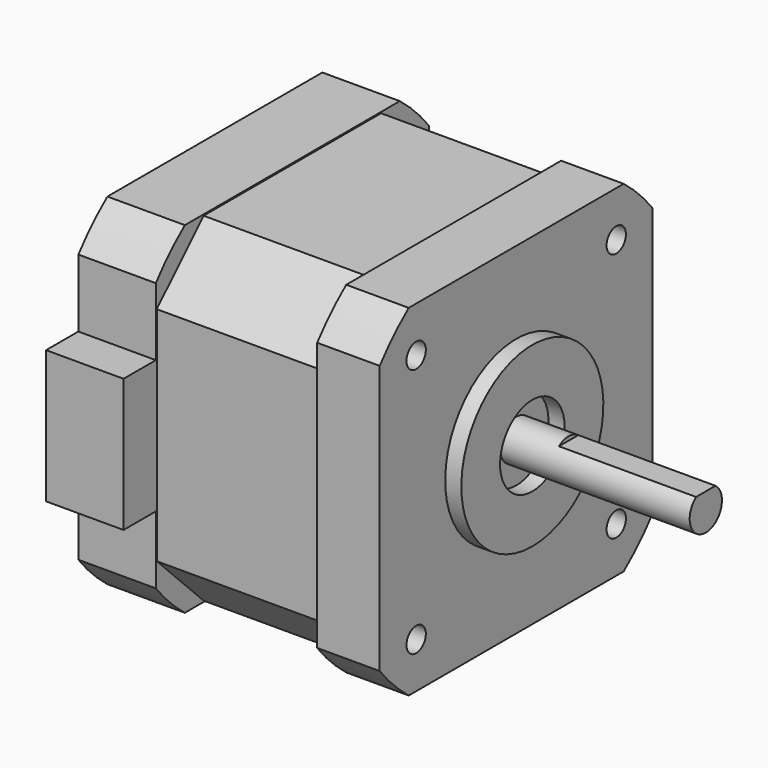
from build123d import *

# Parameters (mm, degrees)
PAD009_DEPTH             = 7.75
PAD010_DEPTH             = 20
PAD011_DEPTH             = 9.6
SKETCH017_R              = 1.5
POCKET004_DEPTH          = 4.5
SKETCH018_R              = 11
SKETCH018_R_2            = 5
PAD012_DEPTH             = 2
SKETCH019_R              = 2.5
PAD013_DEPTH             = 23.5
SKETCH020_W              = 0.5
SKETCH020_H              = 3
POCKET005_DEPTH          = 17
SKETCH021_R              = 1.5
SKETCH021_R_2            = 4.5
POCKET006_DEPTH          = 3
SKETCH022_W              = 16.5
SKETCH022_H              = 9.6
PAD014_DEPTH             = 5
CLONE001BODY_PITCH_ANGLE = 90


with BuildPart() as part:
    # Sketch014 → Pad009 (new body)
    with BuildSketch(Plane.XY):
        with BuildLine():
            Line((-16.65, -21.15), (16.65, -21.15))
            ThreePointArc((16.65, -21.15), (19.033457, -19.033457), (21.15, -16.65))
            Line((21.15, -16.65), (21.15, 16.65))
            ThreePointArc((21.15, 16.65), (19.033457, 19.033457), (16.65, 21.15))
            Line((16.65, 21.15), (-16.65, 21.15))
            ThreePointArc((-16.65, 21.15), (-19.033457, 19.033457), (-21.15, 16.65))
            Line((-21.15, 16.65), (-21.15, -16.65))
            ThreePointArc((-21.15, -16.65), (-19.033457, -19.033457), (-16.65, -21.15))
        make_face()
    extrude(amount=-PAD009_DEPTH)

    # Sketch015 (on Face10 of Pad009) → Pad010 (join)
    with BuildSketch(Plane(origin=(0, 0, -7.75), x_dir=(1, 0, 0), z_dir=(0, 0, -1))):
        Polygon((-21, -13.75), (-21, 13.75), (-13.75, 21), (13.75, 21), (21, 13.75), (21, -13.75), (13.75, -21), (-13.75, -21), align=None)
    extrude(amount=PAD010_DEPTH)

    # Sketch016 (on Face19 of Pad010) → Pad011 (join)
    with BuildSketch(Plane(origin=(0, 0, -27.75), x_dir=(1, 0, 0), z_dir=(0, 0, -1))):
        with BuildLine():
            Line((-16.65, -21.15), (16.65, -21.15))
            ThreePointArc((16.65, -21.15), (19.033457, -19.033457), (21.15, -16.65))
            Line((21.15, -16.65), (21.15, 16.65))
            ThreePointArc((21.15, 16.65), (19.033457, 19.033457), (16.65, 21.15))
            Line((16.65, 21.15), (-16.65, 21.15))
            ThreePointArc((-16.65, 21.15), (-19.033457, 19.033457), (-21.15, 16.65))
            Line((-21.15, 16.65), (-21.15, -16.65))
            ThreePointArc((-21.15, -16.65), (-19.033457, -19.033457), (-16.65, -21.15))
        make_face()
    extrude(amount=PAD011_DEPTH)

    # Sketch017 (on Face4 of Pad011) → Pocket004 (cut)
    with BuildSketch(Plane.XY):
        with Locations((-15.5, 15.5)):
            Circle(SKETCH017_R)
        with Locations((15.5, 15.5)):
            Circle(SKETCH017_R)
        with Locations((15.5, -15.5)):
            Circle(SKETCH017_R)
        with Locations((-15.5, -15.5)):
            Circle(SKETCH017_R)
    extrude(amount=-POCKET004_DEPTH, mode=Mode.SUBTRACT)

    # Sketch018 (on Face4 of Pocket004) → Pad012 (join)
    with BuildSketch(Plane.XY):
        Circle(SKETCH018_R)
        Circle(SKETCH018_R_2, mode=Mode.SUBTRACT)
    extrude(amount=PAD012_DEPTH)

    # Sketch019 (on Face39 of Pad012) → Pad013 (join)
    with BuildSketch(Plane.XY):
        Circle(SKETCH019_R)
    extrude(amount=PAD013_DEPTH)

    # Sketch020 (on Face42 of Pad013) → Pocket005 (cut)
    with BuildSketch(Plane.XY.offset(23.5)):
        with Locations((-2.25, 0)):
            Rectangle(SKETCH020_W, SKETCH020_H)
    extrude(amount=-POCKET005_DEPTH, mode=Mode.SUBTRACT)

    # Sketch021 (on Face40 of Pocket005) → Pocket006 (cut)
    with BuildSketch(Plane(origin=(0, 0, -37.35), x_dir=(1, 0, 0), z_dir=(0, 0, -1))):
        with Locations((-15.5, 15.5)):
            Circle(SKETCH021_R)
        with Locations((15.5, 15.5)):
            Circle(SKETCH021_R)
        with Locations((15.5, -15.5)):
            Circle(SKETCH021_R)
        with Locations((-15.5, -15.5)):
            Circle(SKETCH021_R)
        Circle(SKETCH021_R_2)
    extrude(amount=-POCKET006_DEPTH, mode=Mode.SUBTRACT)

    # Sketch022 (on Face38 of Pocket006) → Pad014 (join)
    with BuildSketch(Plane.XZ.offset(21.15)):
        with Locations((0, -32.55)):
            Rectangle(SKETCH022_W, SKETCH022_H)
    extrude(amount=PAD014_DEPTH)


with BuildPart() as part_1:
    # Clone001Body pitch: moved
    add(part.part.rotate(Axis((0, 0, 0), (0, 1, 0)), CLONE001BODY_PITCH_ANGLE))


with BuildPart() as part_2:
    # Clone001Body placement: moved
    add(part_1.part.moved(Location((51.8, 0, 39.95))))


solid = part_2.part
